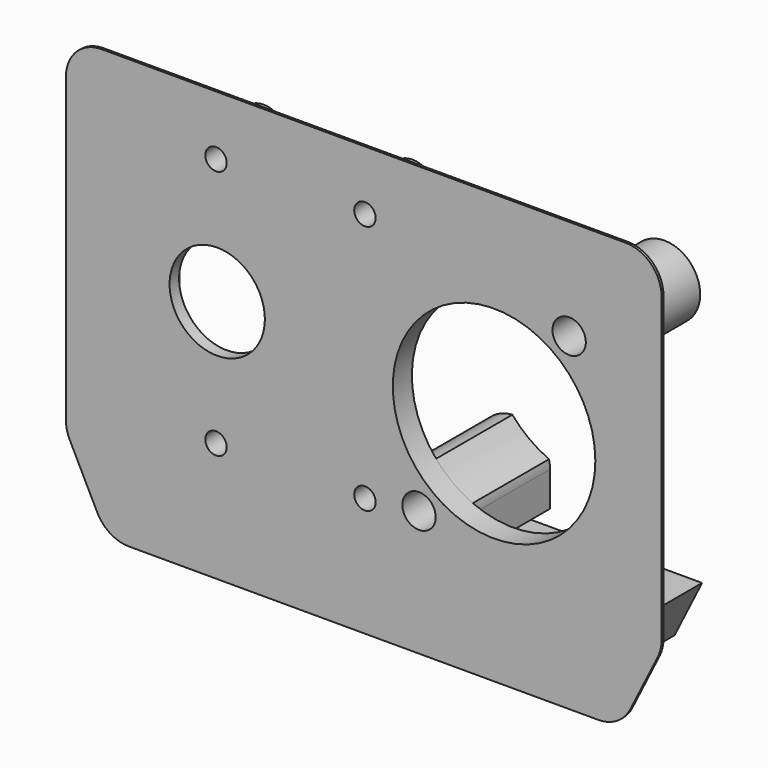
from build123d import *

# Parameters (mm, degrees)
F1_R      = 4
F1_R_2    = 8.5
F2_DEPTH  = 2
F4_DEPTH  = 6
F5_R      = 0.8
F6_DEPTH  = 4.618034
F8_DEPTH  = 8
F9_R      = 1.4
F10_DEPTH = 10
F11_R     = 2
F12_DEPTH = 3
F13_W     = 9.5
F13_H     = 9.5
F13_R     = 4
F14_DEPTH = 1
F15_R     = 0.9
F16_DEPTH = 5
F18_DEPTH = 0.2


with BuildPart() as f2:
    # F1 (on Front) → F2 (new body)
    with BuildSketch(Plane.XZ):
        Polygon((-22, 25.5), (-22, 0.118034), (-19.690983, -4.5), (19.690983, -4.5), (22, 0.118034), (22, 25.5), align=None)
        with Locations((-12.3, 13)):
            Circle(F1_R, mode=Mode.SUBTRACT)
        with Locations((10.94, 11.55)):
            Circle(F1_R_2, mode=Mode.SUBTRACT)
    extrude(amount=F2_DEPTH)

    # F3 (on face) → F4 (join)
    with BuildSketch(Plane(origin=(0, 0, 0), x_dir=(-1, 0, 0), z_dir=(0, 1, 0))):
        Polygon((22, 0.118034), (-22, 0.118034), (-19.690983, -4.5), (19.690983, -4.5), align=None)
    extrude(amount=F4_DEPTH)

    # F5 (on face) → F6 (cut, through all)
    with BuildSketch(Plane(origin=(0, 0, -4.5), x_dir=(1, 0, 0), z_dir=(0, 0, -1))):
        with Locations((-17, -1)):
            Circle(F5_R)
        with Locations((17, -1)):
            Circle(F5_R)
    extrude(amount=-F6_DEPTH, mode=Mode.SUBTRACT)

    # F7 (on face) → F8 (join)
    with BuildSketch(Plane(origin=(0, 0, 0), x_dir=(-1, 0, 0), z_dir=(0, 1, 0))):
        with BuildLine():
            ThreePointArc((-17.408219, 17.06472), (-15.997514, 18.381658), (-14.326099, 19.346431))
            ThreePointArc((-14.326099, 19.346431), (-19.025005, 22.471173), (-17.408219, 17.06472))
        make_face()
        with BuildLine():
            ThreePointArc((-4.471781, 6.03528), (-5.882486, 4.718342), (-7.553901, 3.753569))
            ThreePointArc((-7.553901, 3.753569), (-7.618397, 3.399372), (-7.64, 3.04))
            Line((-7.64, 3.04), (-7.64, 0.118034))
            Line((-7.64, 0.118034), (-2.4, 0.118034))
            Line((-2.4, 0.118034), (-2.4, 5.035595))
            ThreePointArc((-2.4, 5.035595), (-3.336266, 5.741903), (-4.471781, 6.03528))
        make_face()
    extrude(amount=F8_DEPTH)

    # F9 (on face) → F10 (cut, through all)
    with BuildSketch(Plane(origin=(0, 8, 0), x_dir=(-1, 0, 0), z_dir=(0, 1, 0))):
        with Locations((-17.24, 20.06)):
            Circle(F9_R)
        with Locations((-4.64, 3.04)):
            Circle(F9_R)
    extrude(amount=-F10_DEPTH, mode=Mode.SUBTRACT)

    # F11 (on face) → F12 (join)
    with BuildSketch(Plane(origin=(0, 0, 0), x_dir=(-1, 0, 0), z_dir=(0, 1, 0))):
        with Locations((-0.1, 23.5)):
            Circle(F11_R)
        with Locations((12.4, 23.5)):
            Circle(F11_R)
        with BuildLine():
            Line((1.9, 0.118034), (1.9, 2.5))
            ThreePointArc((1.9, 2.5), (1.144335, 4.065768), (-0.55163, 4.44834))
            ThreePointArc((-0.55163, 4.44834), (-1.556353, 4.488475), (-2.4, 5.035595))
            Line((-2.4, 5.035595), (-2.4, 0.118034))
            Line((-2.4, 0.118034), (1.9, 0.118034))
        make_face()
        with BuildLine():
            Line((14.4, 0.118034), (14.4, 2.5))
            ThreePointArc((14.4, 2.5), (12.4, 4.5), (10.4, 2.5))
            Line((10.4, 2.5), (10.4, 0.118034))
            Line((10.4, 0.118034), (14.4, 0.118034))
        make_face()
    extrude(amount=F12_DEPTH)

    # F13 (on face) → F14 (cut)
    with BuildSketch(Plane(origin=(0, 0, 0), x_dir=(-1, 0, 0), z_dir=(0, 1, 0))):
        with Locations((12.3, 13)):
            Rectangle(F13_W, F13_H)
        with Locations((12.3, 13)):
            Circle(F13_R, mode=Mode.SUBTRACT)
    extrude(amount=-F14_DEPTH, mode=Mode.SUBTRACT)

    # F15 (on face) → F16 (cut, through all)
    with BuildSketch(Plane(origin=(0, 3, 0), x_dir=(-1, 0, 0), z_dir=(0, 1, 0))):
        with Locations((-0.1, 23.5)):
            Circle(F15_R)
        with Locations((12.4, 23.5)):
            Circle(F15_R)
        with Locations((-0.1, 2.5)):
            Circle(F15_R)
        with Locations((12.4, 2.5)):
            Circle(F15_R)
    extrude(amount=-F16_DEPTH, mode=Mode.SUBTRACT)

    # F17 (on face) → F18 (join)
    with BuildSketch(Plane.XZ.offset(2)):
        with BuildLine():
            ThreePointArc((-22, 28.5), (-24.12132, 27.62132), (-25, 25.5))
            Line((-25, 25.5), (-25, 0.118034))
            ThreePointArc((-25, 0.118034), (-24.919747, -0.571225), (-24.683282, -1.223607))
            Line((-24.683282, -1.223607), (-22.374265, -5.841641))
            ThreePointArc((-22.374265, -5.841641), (-21.268176, -7.051952), (-19.690983, -7.5))
            Line((-19.690983, -7.5), (19.690983, -7.5))
            ThreePointArc((19.690983, -7.5), (21.268176, -7.051952), (22.374265, -5.841641))
            Line((22.374265, -5.841641), (24.683282, -1.223607))
            ThreePointArc((24.683282, -1.223607), (24.919747, -0.571225), (25, 0.118034))
            Line((25, 0.118034), (25, 25.5))
            ThreePointArc((25, 25.5), (24.12132, 27.62132), (22, 28.5))
            Line((22, 28.5), (-22, 28.5))
        make_face()
        Polygon((-22, 0.118034), (-22, 25.5), (22, 25.5), (22, 0.118034), (19.690983, -4.5), (-19.690983, -4.5), align=None, mode=Mode.SUBTRACT)
    extrude(amount=-F18_DEPTH)


solid = f2.part
